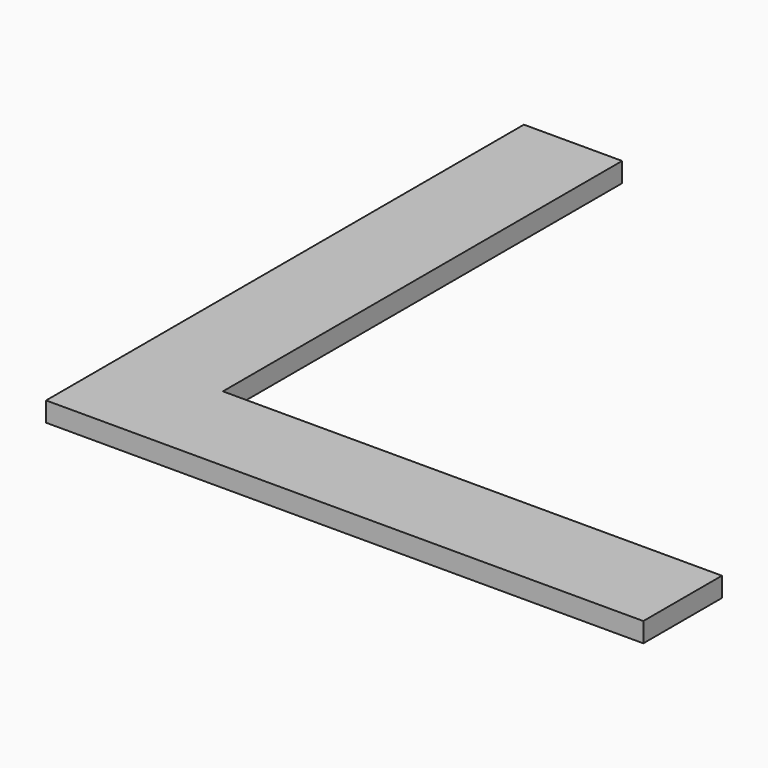
from build123d import *

# Parameters (mm, degrees)
PAD_DEPTH = 1


with BuildPart() as part:
    # Sketch → Pad (new body)
    with BuildSketch(Plane.XY):
        Polygon((0, 30.4), (5, 30.4), (5, 5), (30.4, 5), (30.4, 0), (0, 0), align=None)
    extrude(amount=PAD_DEPTH)


solid = part.part
